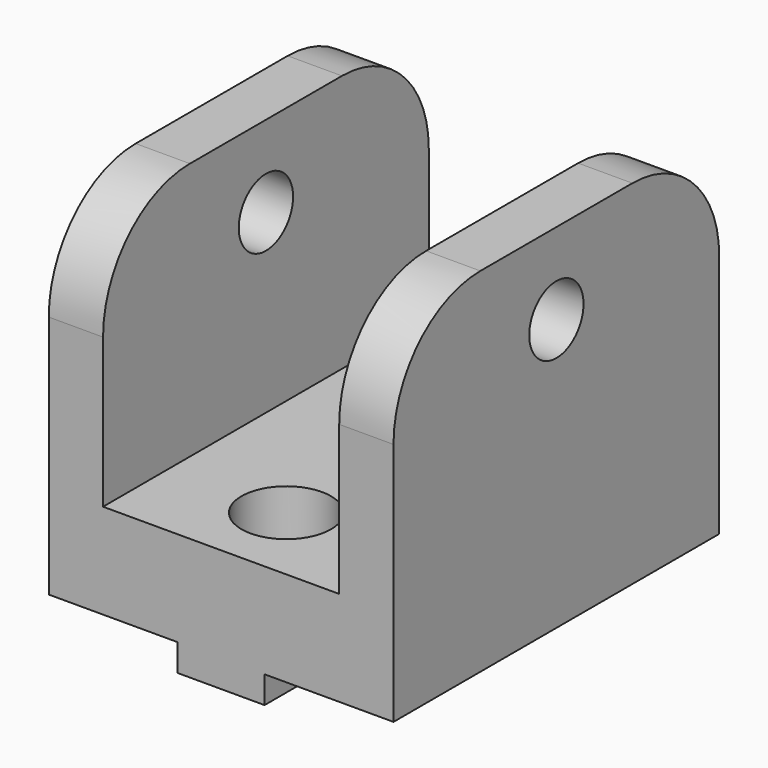
from build123d import *

# Parameters (mm, degrees)
F0_R     = 2.5
F1_DEPTH = 25.4
F2_W     = 17.4
F2_H     = 38.590171
F3_DEPTH = 19
F4_W     = 6.4
F4_H     = 30
F5_DEPTH = 2
F6_R     = 3.3
F7_DEPTH = 10


with BuildPart() as f1:
    # F0 (on Right) → F1 (new body)
    with BuildSketch(Plane.YZ):
        with BuildLine():
            Line((7, 26), (-7, 26))
            ThreePointArc((-7, 26), (-12.656854, 23.656854), (-15, 18))
            Line((-15, 18), (-15, 0))
            Line((-15, 0), (15, 0))
            Line((15, 0), (15, 18))
            ThreePointArc((15, 18), (12.656854, 23.656854), (7, 26))
        make_face()
        with Locations((0, 20)):
            Circle(F0_R, mode=Mode.SUBTRACT)
    extrude(amount=F1_DEPTH)

    # F2 (on face) → F3 (cut)
    with BuildSketch(Plane.XY.offset(26)):
        with Locations((12.7, -0.404529)):
            Rectangle(F2_W, F2_H)
    extrude(amount=-F3_DEPTH, mode=Mode.SUBTRACT)

    # F4 (on face) → F5 (join)
    with BuildSketch(Plane(origin=(0, 0, 0), x_dir=(1, 0, 0), z_dir=(0, 0, -1))):
        with Locations((12.7, 0)):
            Rectangle(F4_W, F4_H)
    extrude(amount=F5_DEPTH)

    # F6 (on face) → F7 (cut)
    with BuildSketch(Plane.XY.offset(7)):
        with Locations((12.7, -9)):
            Circle(F6_R)
    extrude(amount=-F7_DEPTH, mode=Mode.SUBTRACT)


solid = f1.part
